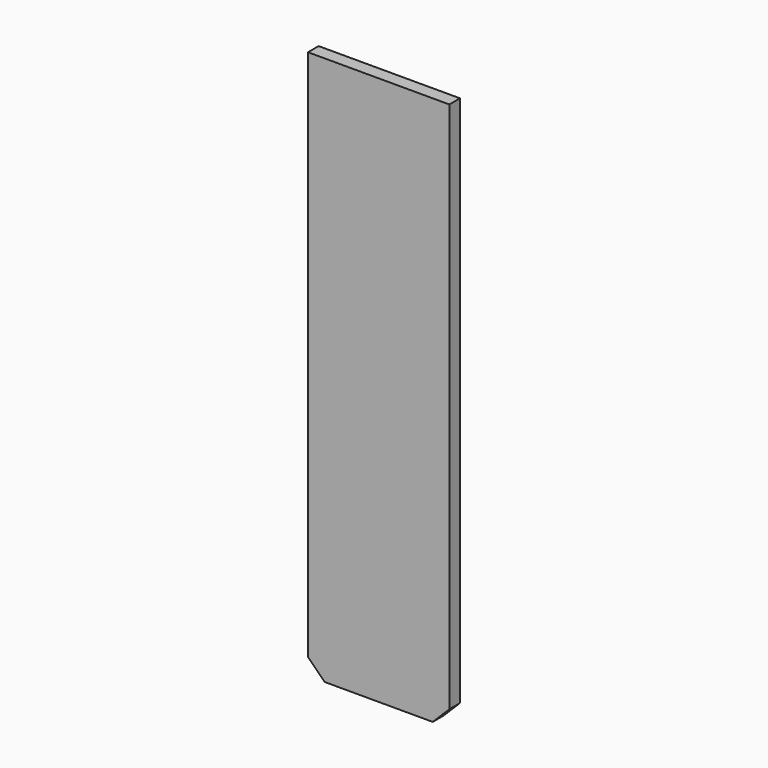
from build123d import *

# Parameters (mm, degrees)
F0_W     = 8.5
F0_H     = 33
F1_DEPTH = 0.8
F2_SIZE  = 1


with BuildPart() as f1:
    # F0 (on Front) → F1 (new body)
    with BuildSketch(Plane.XZ):
        with Locations((4.25, 16.5)):
            Rectangle(F0_W, F0_H)
    extrude(amount=F1_DEPTH)

    # F2
    f2_edges = [f1.edges().sort_by_distance(p)[0] for p in [
        (8.5, -0.4, 0),
        (0, -0.4, 0),
    ]]
    chamfer(f2_edges, length=F2_SIZE)


solid = f1.part
